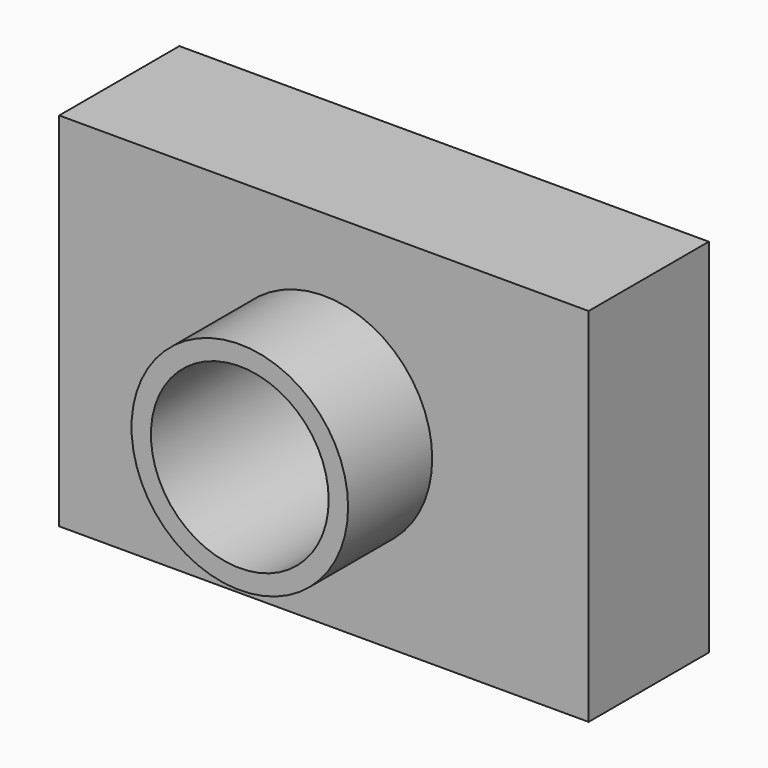
from build123d import *

# Parameters (mm, degrees)
F0_W     = 89.527242
F0_H     = 61.16996
F0_R     = 18.311173
F0_R_2   = 15.030674
F1_DEPTH = 25.4
F2_DEPTH = 43.18


with BuildPart() as f1:
    # F0 (on Front) → F1 (new body)
    with BuildSketch(Plane.XZ):
        Rectangle(F0_W, F0_H)
        Circle(F0_R, mode=Mode.SUBTRACT)
        Circle(F0_R)
        Circle(F0_R_2, mode=Mode.SUBTRACT)
    extrude(amount=F1_DEPTH)

    # F0 (on Front) → F2 (join)
    with BuildSketch(Plane.XZ):
        Circle(F0_R)
        Circle(F0_R_2, mode=Mode.SUBTRACT)
    extrude(amount=F2_DEPTH)


solid = f1.part
